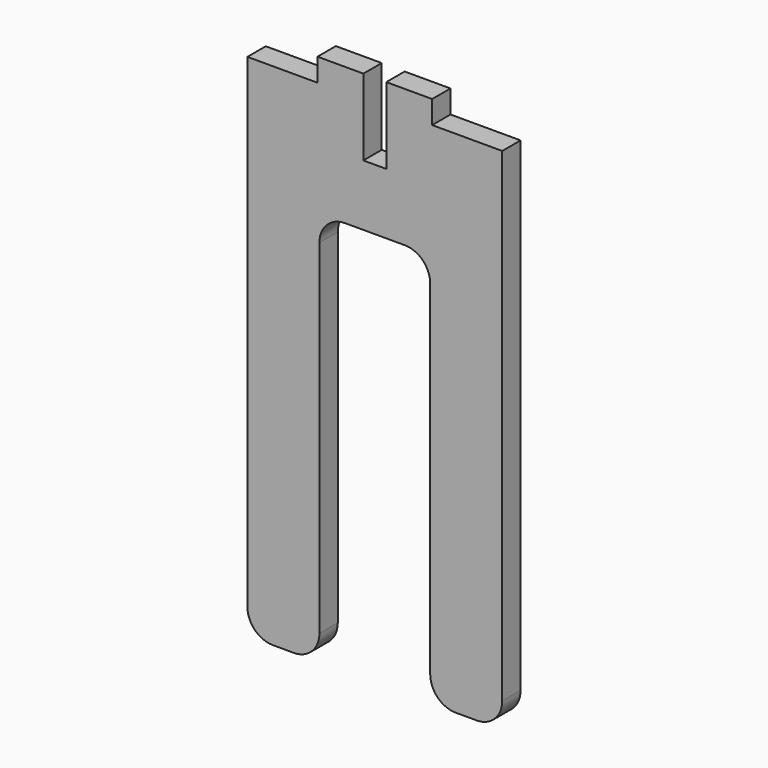
from build123d import *

# Parameters (mm, degrees)
F1_DEPTH = 18
F2_W     = 18
F2_H     = 120
F3_DEPTH = 25


with BuildPart() as f1:
    # F0 (on Front) → F1 (new body)
    with BuildSketch(Plane.XZ):
        with BuildLine():
            Line((62.030874, -167.282365), (78.55066, -167.282365))
            ThreePointArc((78.55066, -167.282365), (92.692795, -161.4245), (98.55066, -147.282365))
            Line((98.55066, -147.282365), (98.55066, 232.717635))
            Line((98.55066, 232.717635), (43.55066, 232.717635))
            Line((43.55066, 232.717635), (43.55066, 250.717635))
            Line((43.55066, 250.717635), (-46.44934, 250.717635))
            Line((-46.44934, 250.717635), (-46.44934, 232.717635))
            Line((-46.44934, 232.717635), (-101.44934, 232.717635))
            Line((-101.44934, 232.717635), (-101.44934, -147.282365))
            ThreePointArc((-101.44934, -147.282365), (-95.591476, -161.4245), (-81.44934, -167.282365))
            Line((-81.44934, -167.282365), (-64.929555, -167.282365))
            ThreePointArc((-64.929555, -167.282365), (-50.787419, -161.4245), (-44.929555, -147.282365))
            Line((-44.929555, -147.282365), (-44.929555, -77.282365))
            Line((-44.929555, -77.282365), (-44.929555, 122.717635))
            ThreePointArc((-44.929555, 122.717635), (-39.071691, 136.859771), (-24.929555, 142.717635))
            Line((-24.929555, 142.717635), (22.030874, 142.717635))
            ThreePointArc((22.030874, 142.717635), (36.17301, 136.859771), (42.030874, 122.717635))
            Line((42.030874, 122.717635), (42.030874, -77.282365))
            Line((42.030874, -77.282365), (42.030874, -147.282365))
            ThreePointArc((42.030874, -147.282365), (47.888738, -161.4245), (62.030874, -167.282365))
        make_face()
    extrude(amount=F1_DEPTH)

    # F2 (on face) → F3 (cut)
    with BuildSketch(Plane.XZ.offset(18)):
        with Locations((-1.44934, 250.717635)):
            Rectangle(F2_W, F2_H)
    extrude(amount=-F3_DEPTH, mode=Mode.SUBTRACT)


solid = f1.part
